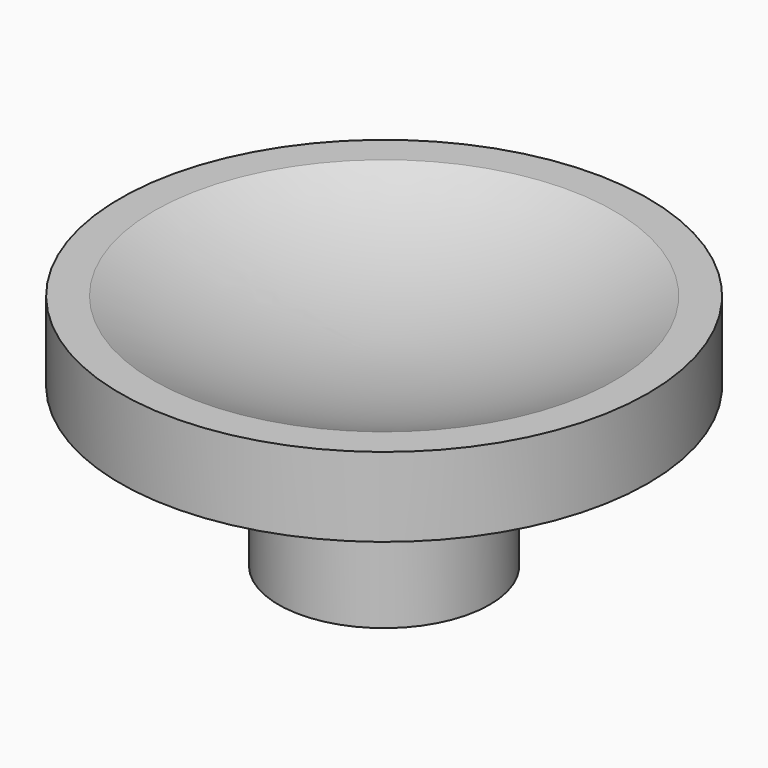
from build123d import *

# Parameters (mm, degrees)
F0_R     = 10
F1_DEPTH = 3
F4_R     = 4
F5_DEPTH = 6
F7_D     = 4
F7_DEPTH = 5.5
F7_TIP   = 1.2017212381


with BuildPart() as f1:
    # F0 (on Top) → F1 (new body)
    with BuildSketch(Plane.XY):
        Circle(F0_R)
    extrude(amount=F1_DEPTH)

    # F2 (on Front) → F3 (revolve, cut)
    with BuildSketch(Plane.XZ):
        with BuildLine():
            Line((0, 1), (0, 41))
            ThreePointArc((0, 41), (-20, 21), (0, 1))
        make_face()
    revolve(axis=Axis((0, 0, 27.4340542965), (0, 0, -1)), mode=Mode.SUBTRACT)

    # F4 (on face) → F5 (join)
    with BuildSketch(Plane(origin=(0, 0, 0), x_dir=(1, 0, 0), z_dir=(0, 0, -1))):
        Circle(F4_R)
    extrude(amount=F5_DEPTH)

    # F7
    with Locations(Plane(origin=(0, 0, -6), x_dir=(1, 0, 0), z_dir=(0, 0, -1))):
        with Locations((0, 0)):
            Hole(F7_D / 2, depth=F7_DEPTH)
            with Locations((0, 0, -(F7_DEPTH + F7_TIP / 2))):  # 118° drill point
                Cone(0, F7_D / 2, F7_TIP, mode=Mode.SUBTRACT)


solid = f1.part
